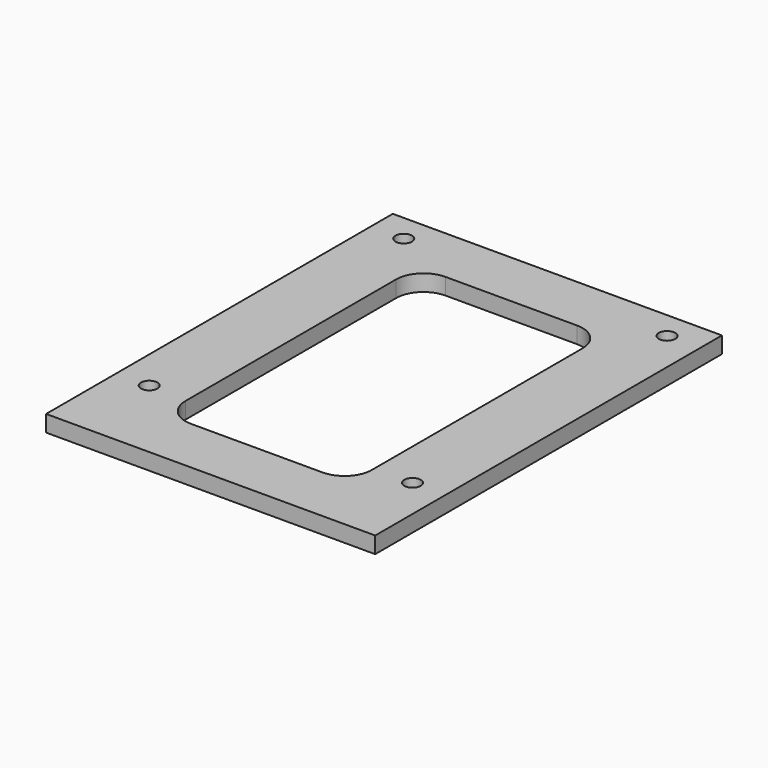
from build123d import *

# Parameters (mm, degrees)
F0_W     = 60
F0_H     = 79
F0_R     = 1.5
F1_DEPTH = 3
F2_W     = 34
F2_H     = 58
F3_DEPTH = 3
F4_R     = 5
F5_R     = 5


with BuildPart() as f1:
    # F0 (on Top) → F1 (new body)
    with BuildSketch(Plane.XY):
        Rectangle(F0_W, F0_H)
        with Locations((-24, -23.5)):
            Circle(F0_R, mode=Mode.SUBTRACT)
        with Locations((24, -23.5)):
            Circle(F0_R, mode=Mode.SUBTRACT)
        with Locations((-24, 34.5)):
            Circle(F0_R, mode=Mode.SUBTRACT)
        with Locations((24, 34.5)):
            Circle(F0_R, mode=Mode.SUBTRACT)
    extrude(amount=F1_DEPTH)

    # F2 (on face) → F3 (cut, through all)
    with BuildSketch(Plane.XY.offset(3)):
        Rectangle(F2_W, F2_H)
    extrude(amount=-F3_DEPTH, mode=Mode.SUBTRACT)

    # F4
    f4_edges = [f1.edges().sort_by_distance(p)[0] for p in [
        (-17, 29, 1.5),
    ]]
    fillet(f4_edges, radius=F4_R)

    # F5
    f5_edges = [f1.edges().sort_by_distance(p)[0] for p in [
        (-17, -29, 1.5),
        (17, -29, 1.5),
        (17, 29, 1.5),
    ]]
    fillet(f5_edges, radius=F5_R)


solid = f1.part
